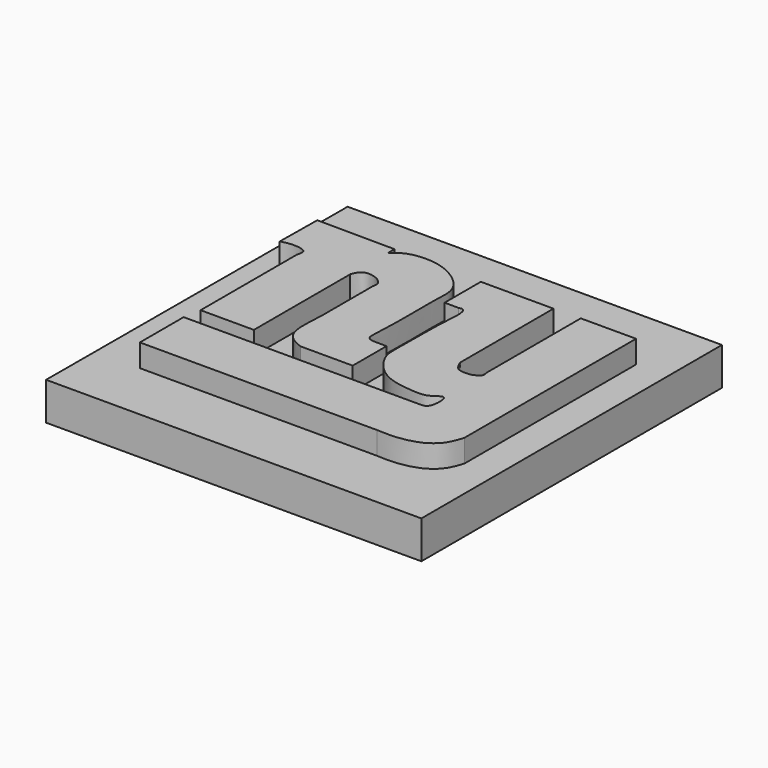
from build123d import *

# Parameters (mm, degrees)
F2_DEPTH = 8
F3_DEPTH = 5


with BuildPart() as f2:
    # F0 (on Top) → F2 (new body)
    with BuildSketch(Plane.XY):
        with BuildLine():
            add(Edge.make_bspline(
                [(5.1468131132, 40.8939681947), (8.5726830487, 40.8720076084), (11.9985529842, 40.8500470221), (15.4244229198, 40.8280864358)],
                knots=[0, 0, 0, 0, 10.2778209627, 10.2778209627, 10.2778209627, 10.2778209627], degree=3))
            Line((5.1468131132, 40.8939681947), (5.080409348, 34.7669310868))
            add(Edge.make_bspline(
                [(8.308799006, 33.5810557008), (8.4166843158, 33.9803333101), (8.6664194374, 34.9045892864), (6.4237051335, 35.1374542666), (5.51203556, 34.8859871564), (5.080409348, 34.7669310868)],
                knots=[0, 0, 0, 0, 0.2859570895, 0.6619393193, 1, 1, 1, 1], degree=3))
            Line((8.308799006, 33.5810557008), (8.308799006, 17.6375824958))
            Line((8.308799006, 17.6375824958), (15.3585495427, 17.6375824958))
            Line((15.3585495427, 17.6375824958), (15.3585495427, 33.5810557008))
            add(Edge.make_bspline(
                [(18.8504811376, 32.9881161451), (18.904430445, 33.2510216055), (19.0314662806, 33.870091923), (17.7888736775, 34.885354278), (15.9021250027, 34.9773397156), (15.5332666309, 34.0298520415), (15.3585495427, 33.5810557008)],
                knots=[0, 0, 0, 0, 0.1961885457, 0.4619702654, 0.7451515384, 1, 1, 1, 1], degree=3))
            Line((18.8504811376, 32.9881161451), (18.8504811376, 29.2328353971))
            Line((18.8504811376, 29.2328353971), (18.8504811376, 24.3575591594))
            add(Edge.make_bspline(
                [(21.4196946472, 17.7693478763), (20.998738388, 17.9339115532), (20.0882570431, 18.2898443956), (18.5126469133, 19.7972904354), (18.7225966583, 22.631305425), (18.8504811376, 24.3575591594)],
                knots=[0, 0, 0, 0, 0.2515692999, 0.5441162818, 1, 1, 1, 1], degree=3))
            Line((21.4196946472, 17.7693478763), (28.3373165876, 17.7693478763))
            Line((28.3373165876, 17.7693478763), (28.3373165876, 23.3693271875))
            add(Edge.make_bspline(
                [(15.4244229198, 39.7080928087), (15.8772780445, 40.1285157817), (17.0142769321, 41.1840861537), (21.8140604304, 41.4520448686), (26.1181461223, 38.1373654808), (25.7450356459, 34.7923151584), (25.8836994996, 30.5795922886), (25.7574598703, 25.2537295316), (25.5520065009, 23.2591012307), (27.7616720101, 23.384376934), (28.1832928133, 23.3733540104), (28.3373165876, 23.3693271875)],
                knots=[0, 0, 0, 0, 0.0925877362, 0.2324632035, 0.377515973, 0.4908226249, 0.628656016, 0.7820891305, 0.8617159612, 0.9494829728, 1, 1, 1, 1], degree=3))
            Line((15.4244229198, 39.7080928087), (15.4244229198, 40.8280864358))
        make_face()
    extrude(amount=F2_DEPTH)


with BuildPart() as f2b:
    # F0 (on Top) → F2, piece 2 (new body)
    with BuildSketch(Plane.XY):
        with BuildLine():
            Line((36.5736857057, 40.6963229179), (26.9543994218, 40.6963229179))
            Line((26.9543994218, 40.6963229179), (26.9543994218, 34.7010493279))
            Line((26.9543994218, 34.7010493279), (28.7991948426, 34.7010493279))
            add(Edge.make_bspline(
                [(28.7991948426, 34.7010493279), (29.0179697776, 34.7492759257), (29.5179115702, 34.8594827545), (29.8579618, 33.5617327855), (29.4637782418, 30.5557944136), (29.6007053231, 24.4449926517), (29.3643548029, 21.8207232951), (30.9506305971, 19.3051186145), (33.3392572143, 17.5796904417), (36.81833018, 17.2054325755), (38.7223287817, 17.1663465745), (40.5051795674, 18.9887869043), (40.4871632599, 15.2758483882), (39.4438150633, 15.3153422975), (39.0114448965, 15.3317088261)],
                knots=[0, 0, 0, 0, 0.0425483747, 0.097231023, 0.1955323903, 0.3330400321, 0.4227936155, 0.5134027826, 0.6081768806, 0.710241758, 0.7882670498, 0.854686634, 0.9397812116, 1, 1, 1, 1], degree=3))
            Line((39.0114448965, 15.3317088261), (7.9134861007, 15.3317088261))
            Line((7.9134861007, 15.3317088261), (7.9134861007, 8.0846762285))
            Line((7.9134861007, 8.0846762285), (39.2749905586, 8.0846762285))
            add(Edge.make_bspline(
                [(39.2749905586, 8.0846762285), (40.1007470338, 8.0428695416), (41.8381917289, 7.9549055856), (44.9656603897, 8.6359266811), (46.8081874916, 10.3384773227), (47.237624385, 11.706870454), (47.444794327, 12.3670138419)],
                knots=[0, 0, 0, 0, 0.2522998867, 0.5308551769, 0.7736740664, 1, 1, 1, 1], degree=3))
            Line((47.444794327, 12.3670138419), (47.444794327, 40.7622046769))
            Line((47.444794327, 40.7622046769), (40.1315018535, 40.7622046769))
            Line((40.1315018535, 40.7622046769), (40.1315018535, 25.2799093723))
            add(Edge.make_bspline(
                [(39.1432195902, 23.8305013627), (39.5611051913, 23.9922928388), (40.3392298138, 24.293556943), (40.1972380684, 24.9677748134), (40.1315018535, 25.2799093723)],
                knots=[0, 0, 0, 0, 0.537041997, 1, 1, 1, 1], degree=3))
            add(Edge.make_bspline(
                [(36.5736857057, 25.2140257508), (36.7983932338, 24.7057045633), (37.2622580013, 23.656374835), (38.5033454801, 23.7712662047), (39.1432195902, 23.8305013627)],
                knots=[0, 0, 0, 0, 0.484424651, 1, 1, 1, 1], degree=3))
            Line((36.5736857057, 25.2140257508), (36.5736857057, 40.6963229179))
        make_face()
    extrude(amount=F2_DEPTH)


with BuildPart() as f3:
    # F1 (on Top) → F3 (new body)
    with BuildSketch(Plane.XY):
        Polygon((51.6432598233, 49.7257225215), (2.0999109838, 49.7257225215), (1.9681467675, 0), (51.6432598233, 0), align=None)
    extrude(amount=F3_DEPTH)


solid = Compound([f2.part, f2b.part, f3.part])
